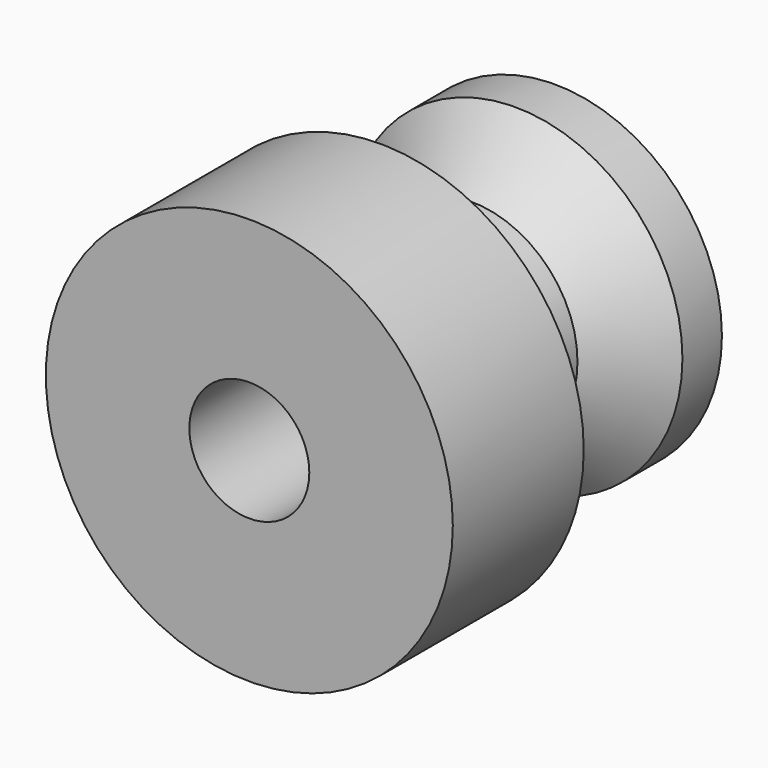
from build123d import *

# Parameters (mm, degrees)
F3_D = 50.8


with BuildPart() as f1:
    # F0 (on Top) → F1 (revolve)
    with BuildSketch(Plane.XY):
        Polygon((0, 161.678255), (0, 0), (86.155102, 0), (86.155102, 69.290683), (43.260872, 69.290683), (45.093954, 117.317565), (70.757166, 140.781075), (70.757166, 161.678255), align=None)
    revolve(axis=Axis((0, 80.839127, 0), (0, -1, 0)))

    # F3 (through all)
    with Locations(Plane(origin=(0, 161.678255, 0), x_dir=(-1, 0, 0), z_dir=(0, 1, 0))):
        with Locations((0, 0)):
            Hole(F3_D / 2)


solid = f1.part
